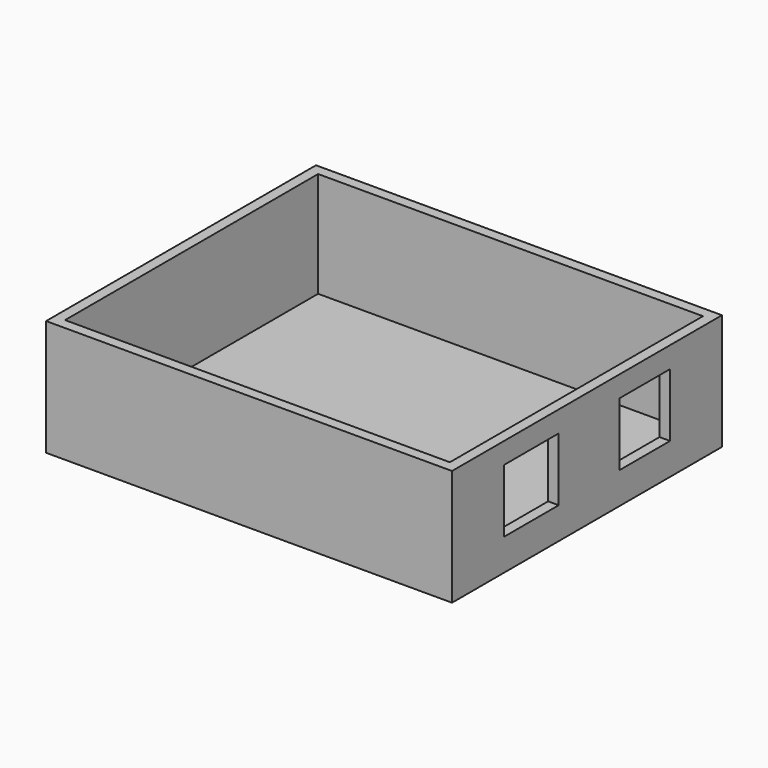
from build123d import *

# Parameters (mm, degrees)
F2_W      = 77
F2_H      = 64
F3_DEPTH  = 22
F4_W      = 73
F4_H      = 60
F5_DEPTH  = 20
F6_W      = 13
F6_H      = 12
F8_DEPTH  = 2
F7_W      = 12
F7_H      = 12
F9_DEPTH  = 2
F10_R     = 3.5
F11_DEPTH = 3


with BuildPart() as f3:
    # F2 (on Top) → F3 (new body)
    with BuildSketch(Plane.XY):
        with Locations((3.2737072408, 3.8249654726)):
            Rectangle(F2_W, F2_H)
    extrude(amount=F3_DEPTH)

    # F4 (on face) → F5 (cut)
    with BuildSketch(Plane.XY.offset(22)):
        with Locations((3.2737072408, 3.8249654726)):
            Rectangle(F4_W, F4_H)
    extrude(amount=-F5_DEPTH, mode=Mode.SUBTRACT)

    # F6 (on face) → F8 (cut)
    with BuildSketch(Plane.YZ.offset(41.7737072408)):
        with Locations((-9.3750345274, 12)):
            Rectangle(F6_W, F6_H)
    extrude(amount=-F8_DEPTH, mode=Mode.SUBTRACT)

    # F7 (on face) → F9 (cut)
    with BuildSketch(Plane.YZ.offset(41.7737072408)):
        with Locations((17.5249654726, 12)):
            Rectangle(F7_W, F7_H)
    extrude(amount=-F9_DEPTH, mode=Mode.SUBTRACT)

    # F10 (on face) → F11 (join)
    with BuildSketch(Plane.XY.offset(2)):
        with Locations((25.7737072408, -21.1750345274)):
            Circle(F10_R)
    extrude(amount=F11_DEPTH)


solid = f3.part
